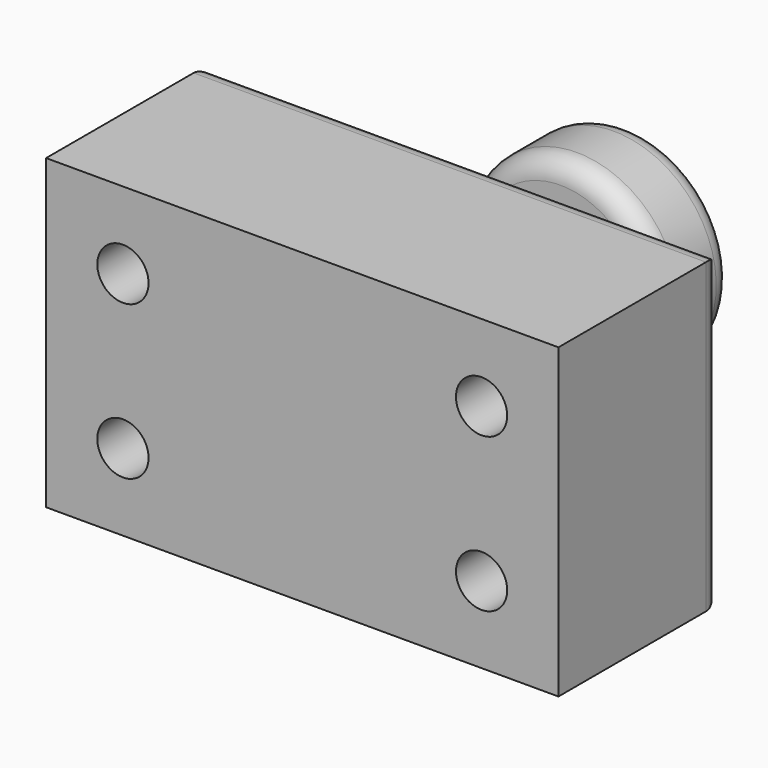
from build123d import *

# Parameters (mm, degrees)
F0_W     = 127
F0_H     = 76.2
F0_R     = 6.35
F1_DEPTH = 50.8
F3_W     = 50.8
F3_H     = 25.4
F5_W     = 10.16
F5_H     = 10.16
F7_R     = 5.08


with BuildPart() as f1:
    # F0 (on Front) → F1 (new body)
    with BuildSketch(Plane.XZ):
        Rectangle(F0_W, F0_H)
        with Locations((-44.45, -19.05)):
            Circle(F0_R, mode=Mode.SUBTRACT)
        with Locations((44.45, -19.05)):
            Circle(F0_R, mode=Mode.SUBTRACT)
        with Locations((-44.45, 19.05)):
            Circle(F0_R, mode=Mode.SUBTRACT)
        with Locations((44.45, 19.05)):
            Circle(F0_R, mode=Mode.SUBTRACT)
    extrude(amount=F1_DEPTH)

    # F3 (on Right) → F4 (revolve)
    with BuildSketch(Plane.YZ):
        with Locations((25.4, -12.7)):
            Rectangle(F3_W, F3_H)
    revolve(axis=Axis((0, 25.4, 0), (0, 1, 0)))

    # F5 (on Right) → F6 (revolve, cut)
    with BuildSketch(Plane.YZ):
        with Locations((24.13, 20.32)):
            Rectangle(F5_W, F5_H)
    revolve(axis=Axis((0, 38.364865, 0), (0, 1, 0)), mode=Mode.SUBTRACT)

    # F7
    f7_edges = [f1.edges().sort_by_distance(p)[0] for p in [
        (63.5, 0, 0),
        (0, 0, 38.1),
        (0, 0, -38.1),
        (-63.5, 0, 0),
        (0, 19.05, 25.4),
        (0, 29.21, 25.4),
        (0, 50.8, 25.4),
    ]]
    fillet(f7_edges, radius=F7_R)


solid = f1.part
